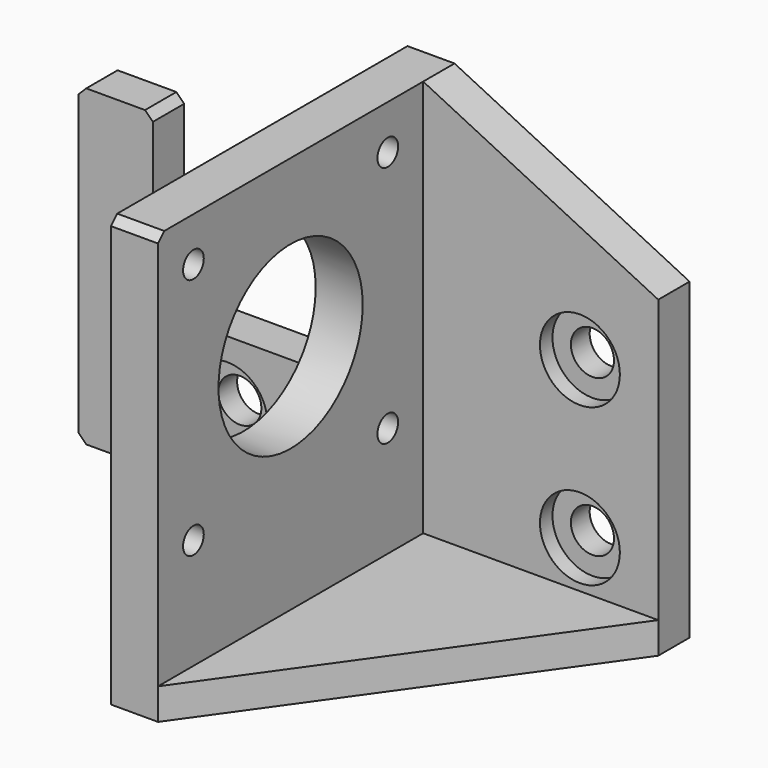
from build123d import *

# Parameters (mm, degrees)
SKETCH003_W   = 47.3
SKETCH003_H   = 54.75
SKETCH003_R   = 11.5
SKETCH003_R_2 = 1.65
PAD001_DEPTH  = 6
SKETCH005_R   = 2.75
PAD003_DEPTH  = 5
PAD002_DEPTH  = 4
SKETCH_R      = 5.1
POCKET_DEPTH  = 2
CHAMFER_SIZE  = 1


with BuildPart() as part:
    # Sketch003 → Pad001 (new body)
    with BuildSketch(Plane.YZ):
        with Locations((-23.65, 27.375)):
            Rectangle(SKETCH003_W, SKETCH003_H)
        with Locations((-26.15, 33.6)):
            Circle(SKETCH003_R, mode=Mode.SUBTRACT)
        with Locations((-41.65, 49.1)):
            Circle(SKETCH003_R_2, mode=Mode.SUBTRACT)
        with Locations((-10.65, 49.1)):
            Circle(SKETCH003_R_2, mode=Mode.SUBTRACT)
        with Locations((-41.65, 18.1)):
            Circle(SKETCH003_R_2, mode=Mode.SUBTRACT)
        with Locations((-10.65, 18.1)):
            Circle(SKETCH003_R_2, mode=Mode.SUBTRACT)
    extrude(amount=PAD001_DEPTH)

    # Sketch005 → Pad003 (join)
    with BuildSketch(Plane.XZ):
        Polygon((-38, 40), (-28.5, 40), (-28.5, 18), (0, 18), (0, 54.75), (6, 54.75), (36, 40), (36, 0), (-38, 0), align=None)
        with Locations((-19, 10)):
            Circle(SKETCH005_R, mode=Mode.SUBTRACT)
        with Locations((26, 30)):
            Circle(SKETCH005_R, mode=Mode.SUBTRACT)
        with Locations((26, 10)):
            Circle(SKETCH005_R, mode=Mode.SUBTRACT)
    extrude(amount=PAD003_DEPTH)

    # Sketch004 → Pad002 (join)
    with BuildSketch(Plane.XY):
        Polygon((-19, 0), (-19, -5.017162), (0, -47.3), (6, -47.3), (36, -5), (36, 0), align=None)
    extrude(amount=PAD002_DEPTH)

    # Sketch → Pocket (cut)
    with BuildSketch(Plane.XZ.offset(5)):
        with Locations((-19, 10)):
            Circle(SKETCH_R)
        with Locations((26, 30)):
            Circle(SKETCH_R)
        with Locations((26, 10)):
            Circle(SKETCH_R)
    extrude(amount=-POCKET_DEPTH, mode=Mode.SUBTRACT)

    # Chamfer
    chamfer_edges = [part.edges().sort_by_distance(p)[0] for p in [
        (3, -47.3, 54.75),
        (-28.5, -2.5, 40),
        (-38, -2.5, 40),
        (-38, -2.5, 0),
    ]]
    chamfer(chamfer_edges, length=CHAMFER_SIZE)


with BuildPart() as part_1:
    # Body001082 placement: moved
    add(part.part.moved(Location((-15, 170, -40))))


solid = part_1.part
